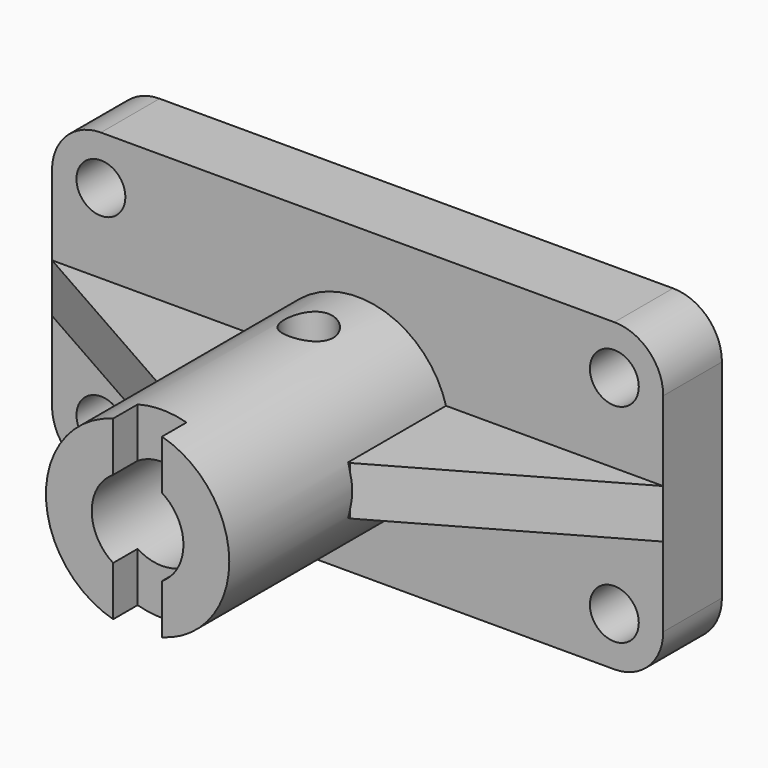
from build123d import *

# Parameters (mm, degrees)
SKETCH_R             = 4
PAD_DEPTH            = 12
SKETCH001_R          = 15
PAD001_DEPTH         = 45
PAD002_DEPTH         = 4
SKETCH003_R          = 7.5
POCKET_DEPTH         = 57.001
SKETCH004_R          = 4
SKETCH004_W          = 8
SKETCH004_H          = 5
POCKET001_DEPTH      = 25.001
POCKET001_DEPTH_BACK = -25.001


with BuildPart() as part:
    # Sketch → Pad (new body)
    with BuildSketch(Plane.XZ):
        with BuildLine():
            ThreePointArc((-42, 25), (-47.656854, 22.656854), (-50, 17))
            Line((-50, -17), (-50, 17))
            ThreePointArc((-50, -17), (-47.656854, -22.656854), (-42, -25))
            Line((42, -25), (-42, -25))
            ThreePointArc((42, -25), (47.656854, -22.656854), (50, -17))
            Line((50, 17), (50, -17))
            ThreePointArc((50, 17), (47.656854, 22.656854), (42, 25))
            Line((-42, 25), (42, 25))
        make_face()
        with Locations((-42, 17)):
            Circle(SKETCH_R, mode=Mode.SUBTRACT)
        with Locations((-42, -17)):
            Circle(SKETCH_R, mode=Mode.SUBTRACT)
        with Locations((42, 17)):
            Circle(SKETCH_R, mode=Mode.SUBTRACT)
        with Locations((42, -17)):
            Circle(SKETCH_R, mode=Mode.SUBTRACT)
    extrude(amount=PAD_DEPTH)

    # Sketch001 (on Face14 of Pad) → Pad001 (join)
    with BuildSketch(Plane.XZ.offset(12)):
        Circle(SKETCH001_R)
    extrude(amount=PAD001_DEPTH)

    # Sketch002 → Pad002 (join, symmetric)
    with BuildSketch(Plane.XY):
        Polygon((-5.727757, -32), (-14.773027, -32), (-50, -12), (-5.727757, -12), align=None)
    pad002 = extrude(amount=PAD002_DEPTH, both=True)

    # Mirrored: Pad002 across Sketch002 V_Axis
    add(pad002.mirror(Plane(origin=(0, 0, 0), x_dir=(0, 0, 1), z_dir=(1, 0, 0))))

    # Sketch003 (on Face26 of Mirrored) → Pocket (cut, through all)
    with BuildSketch(Plane.XZ.offset(57)):
        Circle(SKETCH003_R)
    extrude(amount=-POCKET_DEPTH, mode=Mode.SUBTRACT)

    # Sketch004 → Pocket001 (cut, two sides)
    with BuildSketch(Plane.XY) as pocket001_sk:
        with Locations((0, -22)):
            Circle(SKETCH004_R)
        with Locations((0, -54.5)):
            Rectangle(SKETCH004_W, SKETCH004_H)
    extrude(amount=-POCKET001_DEPTH, mode=Mode.SUBTRACT)
    extrude(pocket001_sk.sketch, amount=-POCKET001_DEPTH_BACK, mode=Mode.SUBTRACT)


solid = part.part
